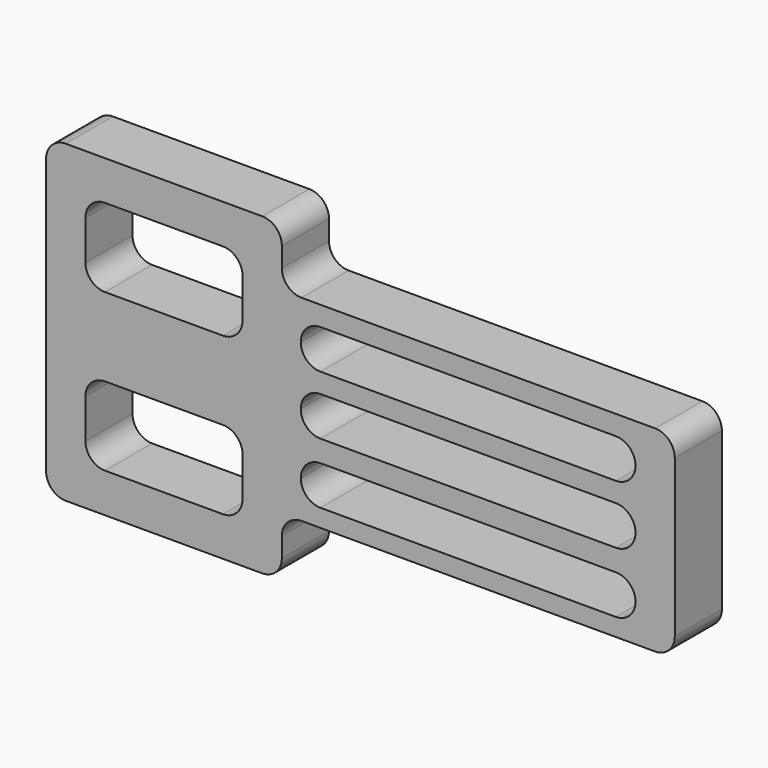
from build123d import *

# Parameters (mm, degrees)
F1_DEPTH = 30


with BuildPart() as f1:
    # F0 (on Front) → F1 (new body)
    with BuildSketch(Plane.XZ):
        with BuildLine():
            Line((-19.756784, 63.263963), (-119.756784, 63.263963))
            ThreePointArc((-119.756784, 63.263963), (-126.827851, 60.335031), (-129.756784, 53.263963))
            Line((-129.756784, 53.263963), (-129.756784, -86.736037))
            ThreePointArc((-129.756784, -86.736037), (-126.827851, -93.807104), (-119.756784, -96.736037))
            Line((-119.756784, -96.736037), (-19.756784, -96.736037))
            ThreePointArc((-19.756784, -96.736037), (-12.685716, -93.807104), (-9.756784, -86.736037))
            Line((-9.756784, -86.736037), (-9.756784, -76.736037))
            ThreePointArc((-9.756784, -76.736037), (-6.827851, -69.664969), (0.243216, -66.736037))
            Line((0.243216, -66.736037), (180.243216, -66.736037))
            ThreePointArc((180.243216, -66.736037), (187.314284, -63.807104), (190.243216, -56.736037))
            Line((190.243216, -56.736037), (190.243216, 23.263963))
            ThreePointArc((190.243216, 23.263963), (187.314284, 30.335031), (180.243216, 33.263963))
            Line((180.243216, 33.263963), (0.243216, 33.263963))
            ThreePointArc((0.243216, 33.263963), (-6.827851, 36.192896), (-9.756784, 43.263963))
            Line((-9.756784, 43.263963), (-9.756784, 53.263963))
            ThreePointArc((-9.756784, 53.263963), (-12.685716, 60.335031), (-19.756784, 63.263963))
        make_face()
        with BuildLine():
            ThreePointArc((-109.756784, -46.736037), (-106.827851, -39.664969), (-99.756784, -36.736037))
            Line((-99.756784, -36.736037), (-39.756784, -36.736037))
            ThreePointArc((-39.756784, -36.736037), (-32.685716, -39.664969), (-29.756784, -46.736037))
            Line((-29.756784, -46.736037), (-29.756784, -66.736037))
            ThreePointArc((-29.756784, -66.736037), (-32.685716, -73.807104), (-39.756784, -76.736037))
            Line((-39.756784, -76.736037), (-99.756784, -76.736037))
            ThreePointArc((-99.756784, -76.736037), (-106.827851, -73.807104), (-109.756784, -66.736037))
            Line((-109.756784, -66.736037), (-109.756784, -46.736037))
        make_face(mode=Mode.SUBTRACT)
        with BuildLine():
            ThreePointArc((-0.117784, -47.720788), (2.811149, -40.64972), (9.882216, -37.720788))
            Line((9.882216, -37.720788), (160.243216, -37.720788))
            ThreePointArc((160.243216, -37.720788), (167.314284, -40.64972), (170.243216, -47.720788))
            ThreePointArc((170.243216, -47.720788), (167.314284, -54.791856), (160.243216, -57.720788))
            Line((160.243216, -57.720788), (9.882216, -57.720788))
            ThreePointArc((9.882216, -57.720788), (2.811149, -54.791856), (-0.117784, -47.720788))
        make_face(mode=Mode.SUBTRACT)
        with BuildLine():
            ThreePointArc((-109.756784, 33.263963), (-106.827851, 40.335031), (-99.756784, 43.263963))
            Line((-99.756784, 43.263963), (-39.756784, 43.263963))
            ThreePointArc((-39.756784, 43.263963), (-32.685716, 40.335031), (-29.756784, 33.263963))
            Line((-29.756784, 33.263963), (-29.756784, 13.263963))
            ThreePointArc((-29.756784, 13.263963), (-32.685716, 6.192896), (-39.756784, 3.263963))
            Line((-39.756784, 3.263963), (-99.756784, 3.263963))
            ThreePointArc((-99.756784, 3.263963), (-106.827851, 6.192896), (-109.756784, 13.263963))
            Line((-109.756784, 13.263963), (-109.756784, 33.263963))
        make_face(mode=Mode.SUBTRACT)
        with BuildLine():
            ThreePointArc((-0.117784, -16.736037), (2.811149, -9.664969), (9.882216, -6.736037))
            Line((9.882216, -6.736037), (160.243216, -6.736037))
            ThreePointArc((160.243216, -6.736037), (167.314284, -9.664969), (170.243216, -16.736037))
            ThreePointArc((170.243216, -16.736037), (167.314284, -23.807104), (160.243216, -26.736037))
            Line((160.243216, -26.736037), (9.882216, -26.736037))
            ThreePointArc((9.882216, -26.736037), (2.811149, -23.807104), (-0.117784, -16.736037))
        make_face(mode=Mode.SUBTRACT)
        with BuildLine():
            ThreePointArc((-0.117468, 13.263963), (2.811464, 20.335031), (9.882532, 23.263963))
            Line((9.882532, 23.263963), (160.243216, 23.263963))
            ThreePointArc((160.243216, 23.263963), (167.314284, 20.335031), (170.243216, 13.263963))
            ThreePointArc((170.243216, 13.263963), (167.314284, 6.192896), (160.243216, 3.263963))
            Line((160.243216, 3.263963), (9.882532, 3.263963))
            ThreePointArc((9.882532, 3.263963), (2.811464, 6.192896), (-0.117468, 13.263963))
        make_face(mode=Mode.SUBTRACT)
    extrude(amount=F1_DEPTH)


solid = f1.part
